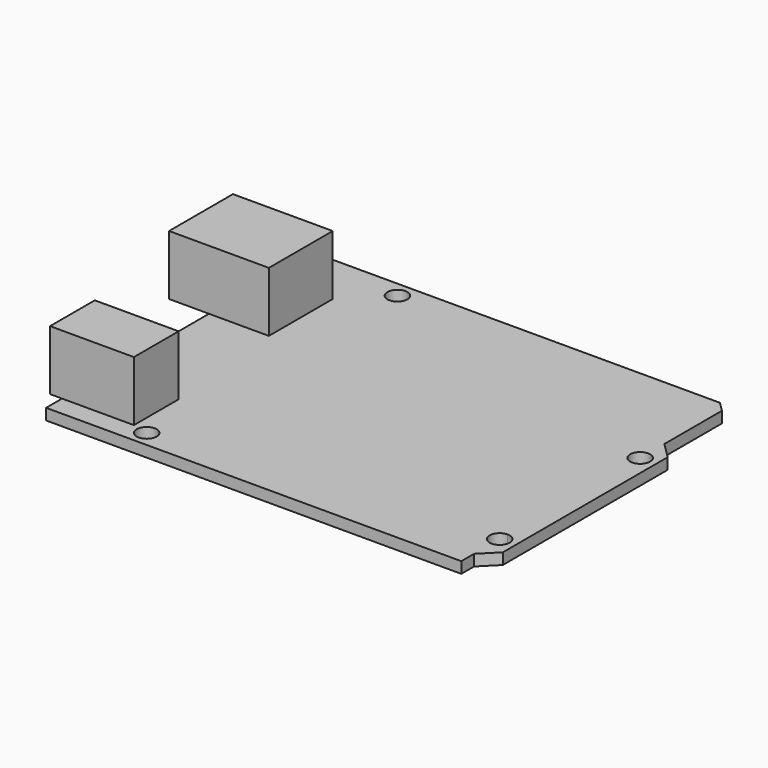
from build123d import *

# Parameters (mm, degrees)
F0_R     = 1.5875
F1_DEPTH = 1.778
F3_DEPTH = 9.525


with BuildPart() as f1:
    # F0 (on Top) → F1 (new body)
    with BuildSketch(Plane.XY):
        with BuildLine():
            Line((0, 53.34), (0, 0))
            Line((0, 0), (66.04, 0))
            Line((66.04, 0), (66.04, 2.54))
            Line((66.04, 2.54), (66.04, 6.0325))
            ThreePointArc((66.04, 6.0325), (64.4525, 7.62), (66.04, 9.2075))
            ThreePointArc((66.04, 9.2075), (67.1625320151, 8.7425320151), (67.6275, 7.62))
            Line((67.6275, 7.62), (68.58, 7.62))
            Line((68.58, 7.62), (68.58, 37.846))
            Line((68.58, 37.846), (66.04, 40.386))
            Line((66.04, 40.386), (66.04, 51.816))
            Line((66.04, 51.816), (64.516, 53.34))
            Line((64.516, 53.34), (0, 53.34))
        make_face()
        with Locations((13.97, 2.54)):
            Circle(F0_R, mode=Mode.SUBTRACT)
        with BuildLine():
            ThreePointArc((13.6525, 50.8), (15.24, 52.3875), (16.8275, 50.8))
            ThreePointArc((16.8275, 50.8), (15.24, 49.2125), (13.6525, 50.8))
        make_face(mode=Mode.SUBTRACT)
        with BuildLine():
            ThreePointArc((67.6275, 35.56), (67.1625320151, 34.4374679849), (66.04, 33.9725))
            ThreePointArc((66.04, 33.9725), (64.9174679849, 36.6825320151), (67.6275, 35.56))
        make_face(mode=Mode.SUBTRACT)
        with BuildLine():
            Line((66.04, 6.0325), (66.04, 2.54))
            Line((66.04, 2.54), (68.58, 5.08))
            Line((68.58, 5.08), (68.58, 7.62))
            Line((68.58, 7.62), (67.6275, 7.62))
            ThreePointArc((67.6275, 7.62), (67.1625320151, 6.4974679849), (66.04, 6.0325))
        make_face()
    extrude(amount=F1_DEPTH)

    # F2 (on face) → F3 (join)
    with BuildSketch(Plane.XY.offset(1.778)):
        Polygon((0, 32.385), (9.525, 32.385), (9.525, 45.085), (-6.35, 45.085), (-6.35, 32.385), align=None)
        Polygon((0, 3.175), (11.43, 3.175), (11.43, 12.065), (-1.905, 12.065), (-1.905, 3.175), align=None)
    extrude(amount=F3_DEPTH)


solid = f1.part
